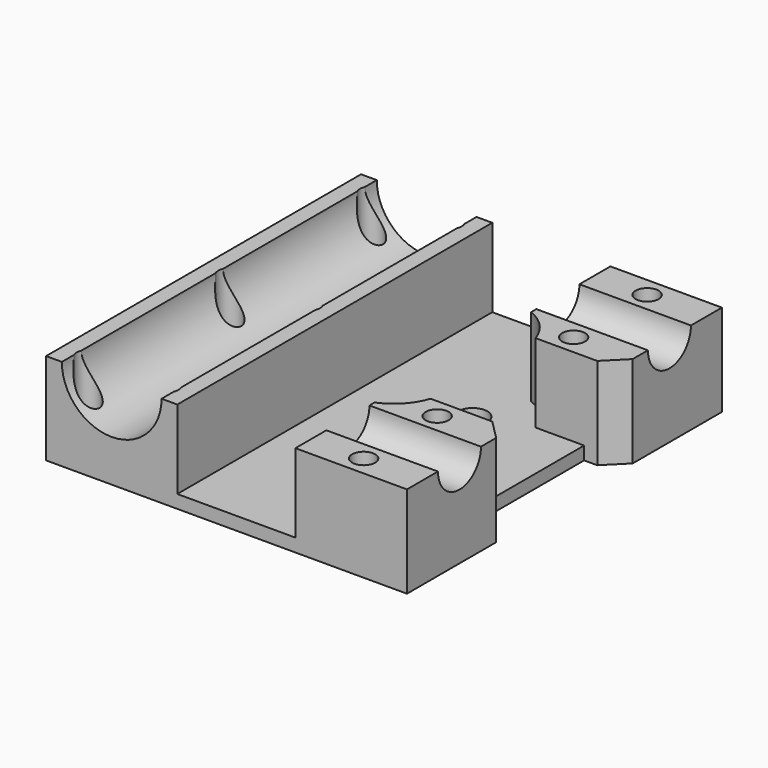
from build123d import *

# Parameters (mm, degrees)
SKETCH_W        = 55
SKETCH_H        = 60
PAD_DEPTH       = 14
SKETCH001_R     = 7.6
POCKET_DEPTH    = 60.001
SKETCH002_R     = 1.75
POCKET001_DEPTH = 14.001
POCKET002_DEPTH = 12
SKETCH004_R     = 2.25
POCKET003_DEPTH = 14.001
SKETCH008_R     = 4.1
POCKET005_DEPTH = 20
SKETCH010_W     = 20
SKETCH010_H     = 25
POCKET006_DEPTH = 5
CHAMFER_SIZE    = 3
CHAMFER001_SIZE = 3


with BuildPart() as part:
    # Sketch → Pad (new body)
    with BuildSketch(Plane.XY):
        with Locations((17.5, 0)):
            Rectangle(SKETCH_W, SKETCH_H)
    extrude(amount=PAD_DEPTH)

    # Sketch001 → Pocket (cut, through all)
    with BuildSketch(Plane.XZ.offset(30)):
        with Locations((0, 14)):
            Circle(SKETCH001_R)
    extrude(amount=-POCKET_DEPTH, mode=Mode.SUBTRACT)

    # Sketch002 → Pocket001 (cut, through all)
    with BuildSketch(Plane(origin=(0, 0, 0), x_dir=(1, 0, 0), z_dir=(0, 0, -1))):
        with Locations((-6, 27)):
            Circle(SKETCH002_R)
        with Locations((36, 27)):
            Circle(SKETCH002_R)
        with Locations((-6, -27)):
            Circle(SKETCH002_R)
        with Locations((36, -27)):
            Circle(SKETCH002_R)
        with Locations((6, 27)):
            Circle(SKETCH002_R)
        with Locations((6, -27)):
            Circle(SKETCH002_R)
        with Locations((6, 0)):
            Circle(SKETCH002_R)
        with Locations((-6, 0)):
            Circle(SKETCH002_R)
        with Locations((36, -13)):
            Circle(SKETCH002_R)
        with Locations((36, 13)):
            Circle(SKETCH002_R)
    extrude(amount=-POCKET001_DEPTH, mode=Mode.SUBTRACT)

    # Sketch003 → Pocket002 (cut)
    with BuildSketch(Plane.XY.offset(14)):
        with BuildLine():
            Line((10, 35), (10, -35))
            Line((10, -35), (28, -35))
            Line((28, -35), (28, -14.916198))
            ThreePointArc((28, -14.916198), (30.841983, -12.965458), (32.599342, -10))
            Line((32.599342, -10), (52.599342, -10))
            Line((52.599342, -10), (52.599342, 10))
            Line((52.599342, 10), (32.599342, 10))
            ThreePointArc((32.599342, 10), (30.841983, 12.965458), (28, 14.916198))
            Line((28, 14.916198), (28, 35))
            Line((28, 35), (10, 35))
        make_face()
    extrude(amount=-POCKET002_DEPTH, mode=Mode.SUBTRACT)

    # Sketch004 → Pocket003 (cut, through all)
    with BuildSketch(Plane(origin=(0, 0, 0), x_dir=(1, 0, 0), z_dir=(0, 0, -1))):
        with Locations((25, 7.5)):
            Circle(SKETCH004_R)
        with Locations((25, -7.5)):
            Circle(SKETCH004_R)
    extrude(amount=-POCKET003_DEPTH, mode=Mode.SUBTRACT)

    # Sketch008 → Pocket005 (cut)
    with BuildSketch(Plane.YZ.offset(45)):
        with Locations((-20, 14)):
            Circle(SKETCH008_R)
        with Locations((20, 14)):
            Circle(SKETCH008_R)
    extrude(amount=-POCKET005_DEPTH, mode=Mode.SUBTRACT)

    # Sketch010 → Pocket006 (cut)
    with BuildSketch(Plane.YZ.offset(45)):
        with Locations((0, 6.5)):
            Rectangle(SKETCH010_W, SKETCH010_H)
    extrude(amount=-POCKET006_DEPTH, mode=Mode.SUBTRACT)

    # Chamfer
    chamfer_edges = [part.edges().sort_by_distance(p)[0] for p in [
        (45, -10, 8),
    ]]
    chamfer(chamfer_edges, length=CHAMFER_SIZE)

    # Chamfer001
    chamfer001_edges = [part.edges().sort_by_distance(p)[0] for p in [
        (45, 10, 8),
    ]]
    chamfer(chamfer001_edges, length=CHAMFER001_SIZE)


solid = part.part
